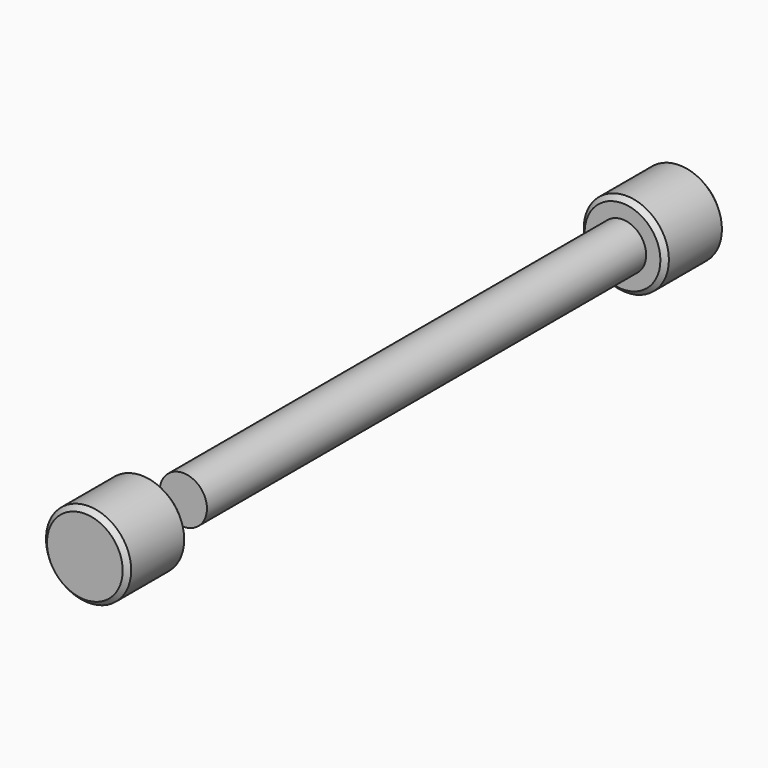
from build123d import *

# Parameters (mm, degrees)
F0_R     = 2.5
F1_DEPTH = 58
F0_R_2   = 4.5
F2_DEPTH = 8
F3_SIZE  = 0.5
F5_R     = 4.5
F5_R_2   = 2.5
F6_DEPTH = 8
F7_SIZE  = 0.5
F8_DEPTH = 4


with BuildPart() as f1:
    # F0 (on Front) → F1 (new body)
    with BuildSketch(Plane.XZ):
        Circle(F0_R)
    extrude(amount=F1_DEPTH)

    # F0 (on Front) → F2 (join)
    with BuildSketch(Plane.XZ):
        Circle(F0_R_2)
        Circle(F0_R, mode=Mode.SUBTRACT)
        Circle(F0_R)
    extrude(amount=-F2_DEPTH)

    # F3
    f3_edges = [f1.edges().sort_by_distance(p)[0] for p in [
        (-4.5, 8, 0),
        (-4.5, 0, 0),
    ]]
    chamfer(f3_edges, length=F3_SIZE)


with BuildPart() as f6:
    # F5 (on offset) → F6 (new body)
    with BuildSketch(Plane.XZ.offset(71)):
        Circle(F5_R)
        Circle(F5_R_2, mode=Mode.SUBTRACT)
    extrude(amount=-F6_DEPTH)

    # F7
    f7_edges = [f6.edges().sort_by_distance(p)[0] for p in [
        (-4.5, -63, 0),
        (-4.5, -71, 0),
    ]]
    chamfer(f7_edges, length=F7_SIZE)

    # F5 (on offset) → F8 (join)
    with BuildSketch(Plane.XZ.offset(71)):
        Circle(F5_R_2)
    extrude(amount=-F8_DEPTH)


solid = Compound([f1.part, f6.part])
